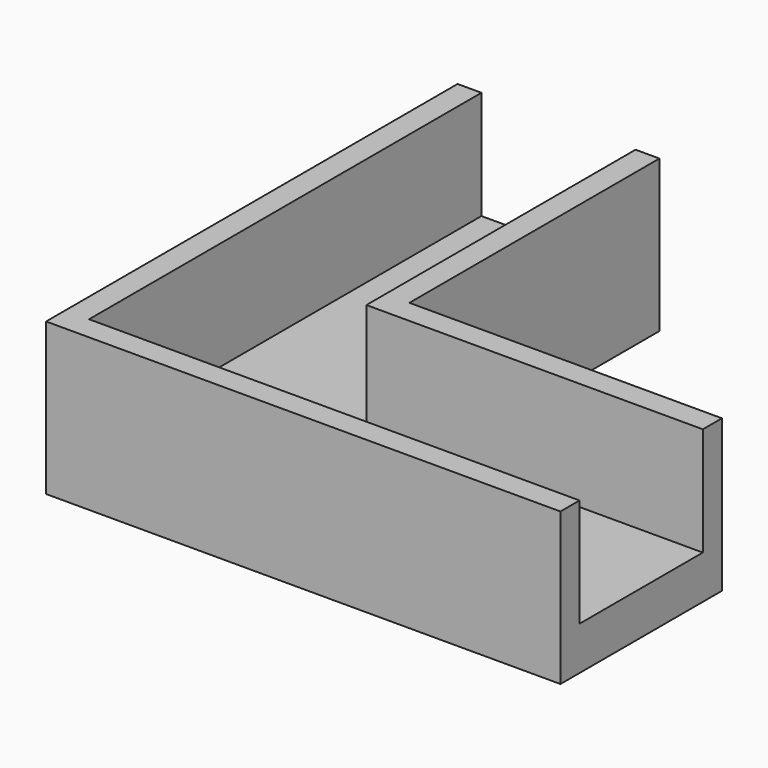
from build123d import *

# Parameters (mm, degrees)
F1_DEPTH = 35
F3_DEPTH = 25
F5_DEPTH = 8.5000004619
F6_D     = 6.5
F6_DEPTH = 5
F6_TIP   = 1.9527970118


with BuildPart() as f1:
    # F0 (on Top) → F1 (new body)
    with BuildSketch(Plane.XY):
        Polygon((72, 0), (0, 0), (0, 72), (-46.5, 72), (-46.5, -46.5), (0, -46.5), (72, -46.5), align=None)
    extrude(amount=F1_DEPTH)

    # F2 (on face) → F3 (cut)
    with BuildSketch(Plane.XY.offset(35)):
        Polygon((-41, 72), (-41, -41), (72, -41), (72, -5.5), (-5.5, -5.5), (-5.5, 72), align=None)
    extrude(amount=-F3_DEPTH, mode=Mode.SUBTRACT)

    # F4 (on face) → F5 (cut)
    with BuildSketch(Plane.XY.offset(10)):
        with BuildLine():
            Line((-14.2343885399, -14.2343885399), (-32.2656114601, -32.2656114601))
            ThreePointArc((-32.2656114601, -32.2656114601), (-18.3707862373, -35.0294640395), (-10.5, -23.25))
            ThreePointArc((-10.5, -23.25), (-11.4705359605, -18.3707862373), (-14.2343885399, -14.2343885399))
        make_face()
        with BuildLine():
            ThreePointArc((-14.2343885399, -14.2343885399), (-32.2656114601, -14.2343885399), (-32.2656114601, -32.2656114601))
            Line((-32.2656114601, -32.2656114601), (-14.2343885399, -14.2343885399))
        make_face()
    extrude(amount=-F5_DEPTH, mode=Mode.SUBTRACT)

    # F6
    with Locations(Plane.XY.offset(10)):
        with Locations((31.75, -23.25), (-23.25, 31.75)):
            Hole(F6_D / 2, depth=F6_DEPTH)
            with Locations((0, 0, -(F6_DEPTH + F6_TIP / 2))):  # 118° drill point
                Cone(0, F6_D / 2, F6_TIP, mode=Mode.SUBTRACT)


solid = f1.part
